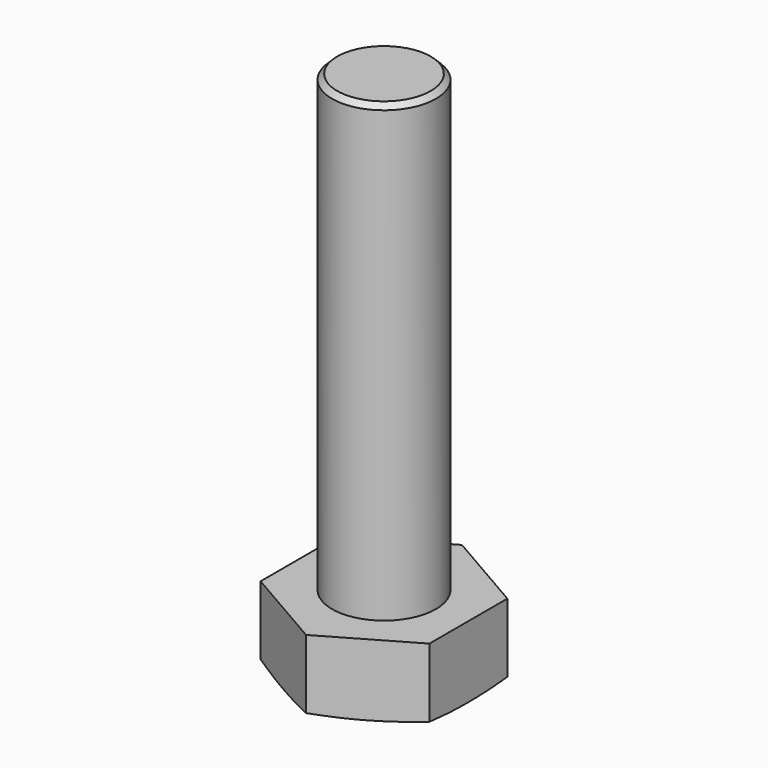
from build123d import *

# Parameters (mm, degrees)
F1_DEPTH = 5.5
F2_R     = 4
F3_DEPTH = 35
F4_SIZE  = 0.4


with BuildPart() as f1:
    # F0 (on Top) → F1 (new body)
    with BuildSketch(Plane.XY):
        Polygon((6.5, 3.752777), (0, 7.505553), (-6.5, 3.752777), (-6.5, -3.752777), (0, -7.505553), (6.5, -3.752777), align=None)
    extrude(amount=F1_DEPTH)

    # F2 (on face) → F3 (join)
    with BuildSketch(Plane.XY.offset(5.5)):
        Circle(F2_R)
    extrude(amount=F3_DEPTH)

    # F4
    f4_edges = [f1.edges().sort_by_distance(p)[0] for p in [
        (-4, 0, 40.5),
    ]]
    chamfer(f4_edges, length=F4_SIZE)

    # F5 (on Front) → F6 (revolve, cut)
    with BuildSketch(Plane.XZ):
        Polygon((-11.5, 1), (-11.5, 0), (-6.5, 0), align=None)
        Polygon((-11.5, 1), (-11.5, 0), (-6.5, 0), align=None)
    revolve(axis=Axis((0, 0, 5.5), (0, 0, -1)), mode=Mode.SUBTRACT)


solid = f1.part
